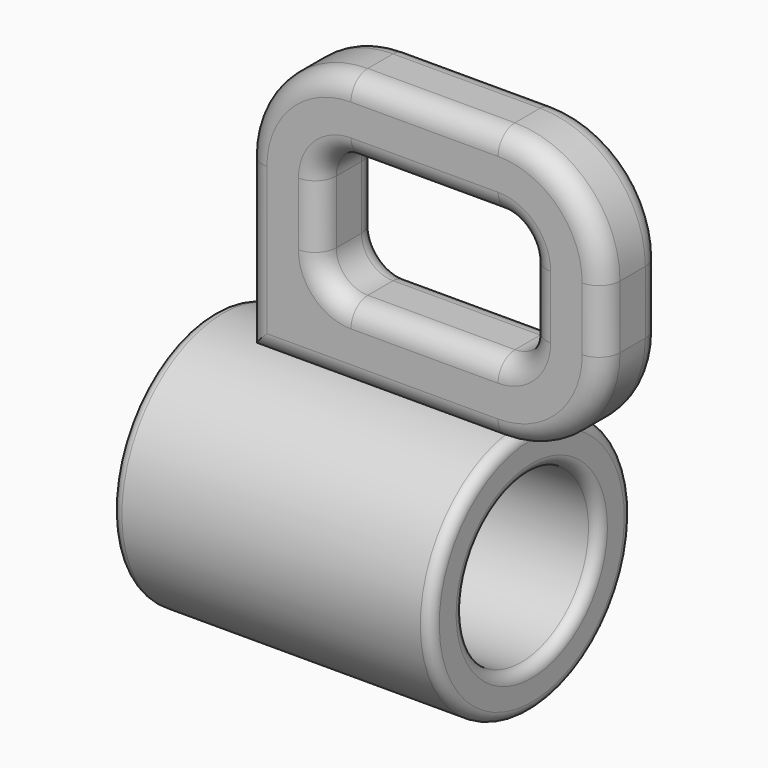
from build123d import *

# Parameters (mm, degrees)
F2_DEPTH = 1.75
F4_R     = 1


with BuildPart() as f2:
    # F1 (on Front) → F2 (new body, symmetric)
    with BuildSketch(Plane.XZ):
        with BuildLine():
            Line((-4.6, 8.282413), (-4.6, 6))
            Line((-4.6, 6), (7.4, 6))
            ThreePointArc((7.4, 6), (10.935534, 7.464466), (12.4, 11))
            Line((12.4, 11), (12.4, 14))
            ThreePointArc((12.4, 14), (10.935534, 17.535534), (7.4, 19))
            Line((7.4, 19), (0.4, 19))
            ThreePointArc((0.4, 19), (-3.135534, 17.535534), (-4.6, 14))
            Line((-4.6, 14), (-4.6, 8.282413))
        make_face()
        with BuildLine():
            ThreePointArc((7.4, 15.5), (8.46066, 15.06066), (8.9, 14))
            Line((8.9, 14), (8.9, 11))
            ThreePointArc((8.9, 11), (8.46066, 9.93934), (7.4, 9.5))
            Line((7.4, 9.5), (0.4, 9.5))
            ThreePointArc((0.4, 9.5), (-0.66066, 9.93934), (-1.1, 11))
            Line((-1.1, 11), (-1.1, 14))
            ThreePointArc((-1.1, 14), (-0.66066, 15.06066), (0.4, 15.5))
            Line((0.4, 15.5), (7.4, 15.5))
        make_face(mode=Mode.SUBTRACT)
    extrude(amount=F2_DEPTH, both=True)

    # F4
    f4_edges = [f2.edges().sort_by_distance(p)[0] for p in [
        (3.9, -1.75, 19),
        (3.9, -1.75, 15.5),
        (-1.1, 1.75, 12.5),
        (10.935534, 1.75, 17.535534),
    ]]
    fillet(f4_edges, radius=F4_R)


with BuildPart() as f3:
    # F0 (on Front) → F3 (revolve)
    with BuildSketch(Plane.XZ):
        with BuildLine():
            Line((7.1, 6), (-7.1, 6))
            ThreePointArc((-7.1, 6), (-7.453553, 5.853553), (-7.6, 5.5))
            Line((-7.6, 5.5), (-7.6, 3.2))
            ThreePointArc((-7.6, 3.2), (-7.453553, 2.846447), (-7.1, 2.7))
            Line((-7.1, 2.7), (-0.907107, 2.7))
            ThreePointArc((-0.907107, 2.7), (-0.715765, 2.73806), (-0.553553, 2.846447))
            Line((-0.553553, 2.846447), (0.453553, 3.853553))
            ThreePointArc((0.453553, 3.853553), (0.615765, 3.96194), (0.807107, 4))
            Line((0.807107, 4), (7.1, 4))
            ThreePointArc((7.1, 4), (7.453553, 4.146447), (7.6, 4.5))
            Line((7.6, 4.5), (7.6, 5.5))
            ThreePointArc((7.6, 5.5), (7.453553, 5.853553), (7.1, 6))
        make_face()
    revolve(axis=Axis((-2.401199, 0, 0), (1, 0, 0)))


solid = Compound([f2.part, f3.part])
